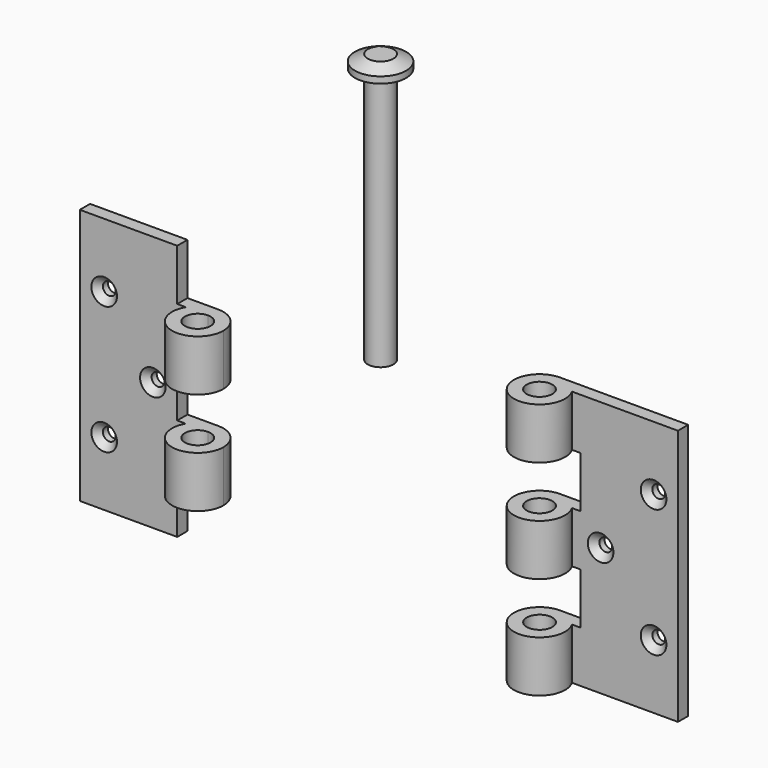
from build123d import *

# Parameters (mm, degrees)
F0_W                   = 15
F0_H                   = 30
F1_DEPTH               = 1.5
F3_DEPTH               = 30
F4_R                   = 3
F4_R_2                 = 1.5
F5_DEPTH               = 30
F6_W                   = 7
F6_H                   = 6
F7_DEPTH               = 25
F12_D                  = 1.5
F12_CSINK_D            = 3
F12_CSINK_ANGLE        = 90
F12_ON_F11_D           = 1.5
F12_ON_F11_CSINK_D     = 3
F12_ON_F11_CSINK_ANGLE = 90


with BuildPart() as f1:
    # F0 (on Front) → F1 (new body)
    with BuildSketch(Plane.XZ):
        with Locations((-27.5, 0)):
            Rectangle(F0_W, F0_H)
    extrude(amount=F1_DEPTH)

    # F2 (on face) → F3 (join, through all)
    with BuildSketch(Plane.XY.offset(15)):
        with BuildLine():
            Line((-20, 0), (-20, -1.5))
            Line((-20, -1.5), (-22.5980762114, -1.5))
            ThreePointArc((-22.5980762114, -1.5), (-20.7764571353, -5.8977774789), (-17, -3))
            ThreePointArc((-17, -3), (-17.8786796564, -0.8786796564), (-20, 0))
        make_face()
        with BuildLine():
            ThreePointArc((-20, -1.5), (-18.9393398282, -1.9393398282), (-18.5, -3))
            ThreePointArc((-18.5, -3), (-21.0606601718, -4.0606601718), (-20, -1.5))
        make_face(mode=Mode.SUBTRACT)
        with BuildLine():
            Line((-22.5980762114, -1.5), (-20, -1.5))
            Line((-20, -1.5), (-20, 0))
            ThreePointArc((-20, 0), (-21.5, -0.4019237886), (-22.5980762114, -1.5))
        make_face()
    extrude(amount=-F3_DEPTH)


with BuildPart() as f1b:
    # F0 (on Front) → F1, piece 2 (new body)
    with BuildSketch(Plane.XZ):
        with Locations((27.5, 0)):
            Rectangle(F0_W, F0_H)
    extrude(amount=F1_DEPTH)

    # F4 (on face) → F5 (join, through all)
    with BuildSketch(Plane.XY.offset(15)):
        with Locations((20, -3)):
            Circle(F4_R)
        with Locations((20, -3)):
            Circle(F4_R_2, mode=Mode.SUBTRACT)
    extrude(amount=-F5_DEPTH)


with BuildPart() as f7_tool:
    # F6 (on Front) → F7 (new body)
    with BuildSketch(Plane.XZ):
        with Locations((-20.0980762114, 12)):
            Rectangle(F6_W, F6_H)
        with Locations((20.0980762114, 6)):
            Rectangle(F6_W, F6_H)
        with Locations((-20.0980762114, 0)):
            Rectangle(F6_W, F6_H)
        with Locations((20.0980762114, -6)):
            Rectangle(F6_W, F6_H)
        with Locations((-20.0980762114, -12)):
            Rectangle(F6_W, F6_H)
    extrude(amount=F7_DEPTH)


with BuildPart() as f1_1:
    add(f1.part)

    # F7: cut by f7_tool
    add(f7_tool.part, mode=Mode.SUBTRACT)

    # F12 (through all)
    with Locations(Plane.XZ.offset(1.5)):
        with Locations((-32.1495, 7.5), (-26.4485762114, 0), (-32.1495, -7.5)):
            CounterSinkHole(F12_D / 2, F12_CSINK_D / 2, counter_sink_angle=F12_CSINK_ANGLE)


with BuildPart() as f1b_1:
    add(f1b.part)

    # F7: cut by f7_tool
    add(f7_tool.part, mode=Mode.SUBTRACT)

    # F12 on F11 (through all)
    with Locations(Plane.XZ.offset(1.5)):
        with Locations((32.1495, -7.5), (25.9485381057, 0), (32.1495, 7.5)):
            CounterSinkHole(F12_ON_F11_D / 2, F12_ON_F11_CSINK_D / 2, counter_sink_angle=F12_ON_F11_CSINK_ANGLE)


with BuildPart() as f9:
    # F8 (on Front) → F9 (revolve)
    with BuildSketch(Plane.XZ):
        Polygon((-1, 41.5), (-2.5, 41.5), (-4, 40.75), (-4, 40), (-2.5, 40), (-2.5, 10), (-1, 10), align=None)
    revolve(axis=Axis((-1, 0, 25.75), (0, 0, -1)))


solid = Compound([f1_1.part, f1b_1.part, f9.part])
